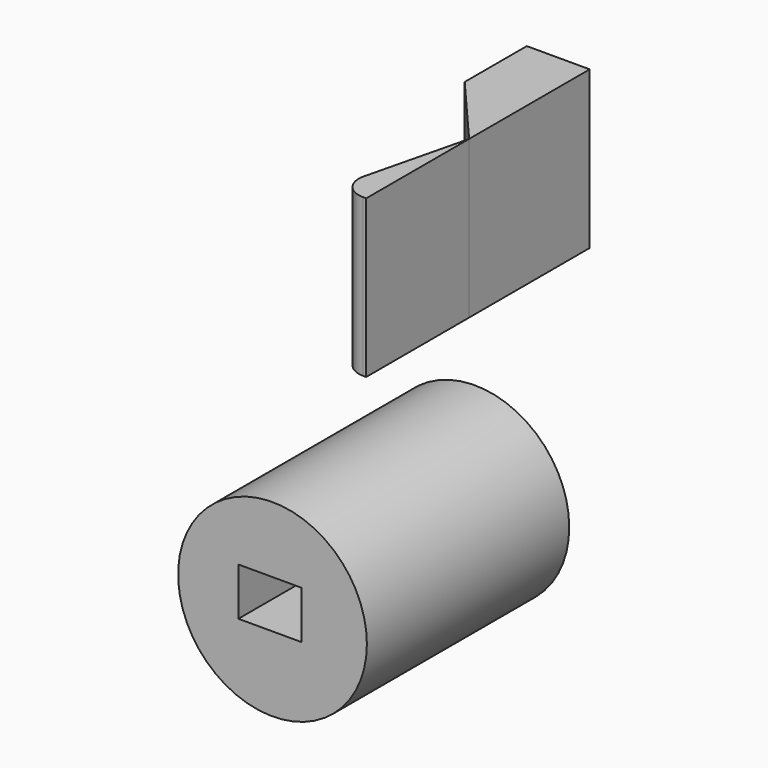
from build123d import *

# Parameters (mm, degrees)
F1_DEPTH = 25
F2_R     = 3.550389
F3_R     = 15
F4_DEPTH = 40.2
F5_W     = 10
F5_H     = 7.600841
F6_DEPTH = 25


with BuildPart() as f1:
    # F0 (on Top) → F1 (new body)
    with BuildSketch(Plane.XY):
        Polygon((-67.167886, 20.239018), (-77.167886, 20.239018), (-77.167886, 7.904011), (-67.167886, -3.716852), align=None)
        Polygon((-67.167886, -24.158722), (-67.167886, -3.716852), (-72.167886, -24.158722), align=None)
    extrude(amount=F1_DEPTH)

    # F2
    f2_edges = [f1.edges().sort_by_distance(p)[0] for p in [
        (-72.167886, -24.158722, 12.5),
    ]]
    fillet(f2_edges, radius=F2_R)


with BuildPart() as f4:
    # F3 (on Front) → F4 (new body)
    with BuildSketch(Plane.XZ):
        with Locations((-69.23005, -26.643518)):
            Circle(F3_R)
    extrude(amount=F4_DEPTH)

    # F5 (on face) → F6 (cut)
    with BuildSketch(Plane.XZ.offset(40.2)):
        with Locations((-69.653824, -25.943869)):
            Rectangle(F5_W, F5_H)
    extrude(amount=-F6_DEPTH, mode=Mode.SUBTRACT)


solid = Compound([f1.part, f4.part])
